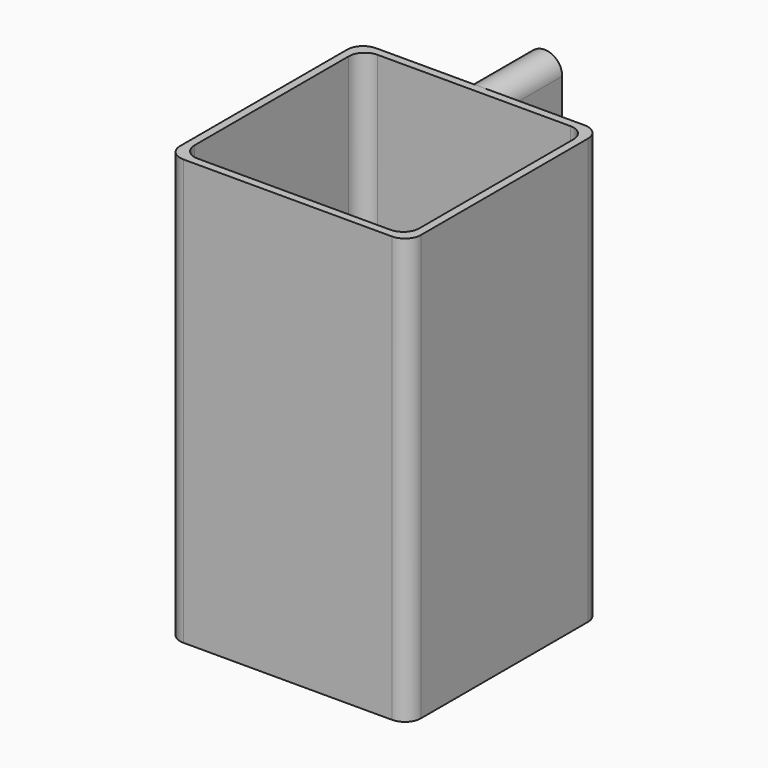
from build123d import *

# Parameters (mm, degrees)
PAD_DEPTH    = 2
PAD001_DEPTH = 51
PAD002_DEPTH = 5
PAD003_DEPTH = 5


with BuildPart() as part:
    # Sketch → Pad (new body)
    with BuildSketch(Plane.XY):
        with BuildLine():
            Line((-15, 13), (-15, -13))
            ThreePointArc((-15, -13), (-14.414214, -14.414214), (-13, -15))
            Line((-13, -15), (13, -15))
            ThreePointArc((13, -15), (14.414214, -14.414214), (15, -13))
            Line((15, -13), (15, 13))
            ThreePointArc((15, 13), (14.414214, 14.414214), (13, 15))
            Line((13, 15), (-13, 15))
            ThreePointArc((-13, 15), (-14.414214, 14.414214), (-15, 13))
        make_face()
    extrude(amount=PAD_DEPTH)

    # Sketch001 (on Face10 of Pad) → Pad001 (join)
    with BuildSketch(Plane.XY.offset(2)):
        with BuildLine():
            Line((-15, 13), (-15, -13))
            ThreePointArc((-15, -13), (-14.414214, -14.414214), (-13, -15))
            Line((-13, -15), (13, -15))
            ThreePointArc((13, -15), (14.414214, -14.414214), (15, -13))
            Line((15, -13), (15, 13))
            ThreePointArc((15, 13), (14.414214, 14.414214), (13, 15))
            Line((13, 15), (-13, 15))
            ThreePointArc((-13, 15), (-14.414214, 14.414214), (-15, 13))
        make_face()
        with BuildLine():
            Line((-14, 12), (-14, -12))
            ThreePointArc((-14, -12), (-13.414214, -13.414214), (-12, -14))
            Line((-12, -14), (12, -14))
            ThreePointArc((12, -14), (13.414214, -13.414214), (14, -12))
            Line((14, -12), (14, 12))
            ThreePointArc((14, 12), (13.414214, 13.414214), (12, 14))
            Line((12, 14), (-12, 14))
            ThreePointArc((-12, 14), (-13.414214, 13.414214), (-14, 12))
        make_face(mode=Mode.SUBTRACT)
    extrude(amount=PAD001_DEPTH)

    # Sketch002 (on Face13 of Pad001) → Pad002 (join)
    with BuildSketch(Plane(origin=(0, 15, 0), x_dir=(-1, 0, 0), z_dir=(0, 1, 0))):
        with BuildLine():
            ThreePointArc((2.2, 50.8), (0, 53), (-2.2, 50.8))
            Line((-2.2, 50.8), (-2.2, 48.7))
            ThreePointArc((-2.2, 48.7), (0, 46.5), (2.2, 48.7))
            Line((2.2, 50.8), (2.2, 48.7))
        make_face()
        with BuildLine():
            ThreePointArc((-2.2, 8.7), (0, 6.5), (2.2, 8.7))
            Line((2.2, 8.7), (2.2, 10.8))
            ThreePointArc((2.2, 10.8), (0, 13), (-2.2, 10.8))
            Line((-2.2, 8.7), (-2.2, 10.8))
        make_face()
    extrude(amount=PAD002_DEPTH)

    # Sketch003 (on Face28 of Pad002) → Pad003 (join)
    with BuildSketch(Plane(origin=(0, 20, 0), x_dir=(-1, 0, 0), z_dir=(0, 1, 0))):
        with BuildLine():
            ThreePointArc((2.2, 50.8), (0, 53), (-2.2, 50.8))
            Line((-2.2, 50.8), (-2.2, 42.2))
            ThreePointArc((-2.2, 42.2), (0, 40), (2.2, 42.2))
            Line((2.2, 50.8), (2.2, 42.2))
        make_face()
        with BuildLine():
            ThreePointArc((2.2, 10.8), (0, 13), (-2.2, 10.8))
            Line((-2.2, 10.8), (-2.2, 2.2))
            ThreePointArc((-2.2, 2.2), (0, 0), (2.2, 2.2))
            Line((2.2, 10.8), (2.2, 2.2))
        make_face()
    extrude(amount=PAD003_DEPTH)


solid = part.part
